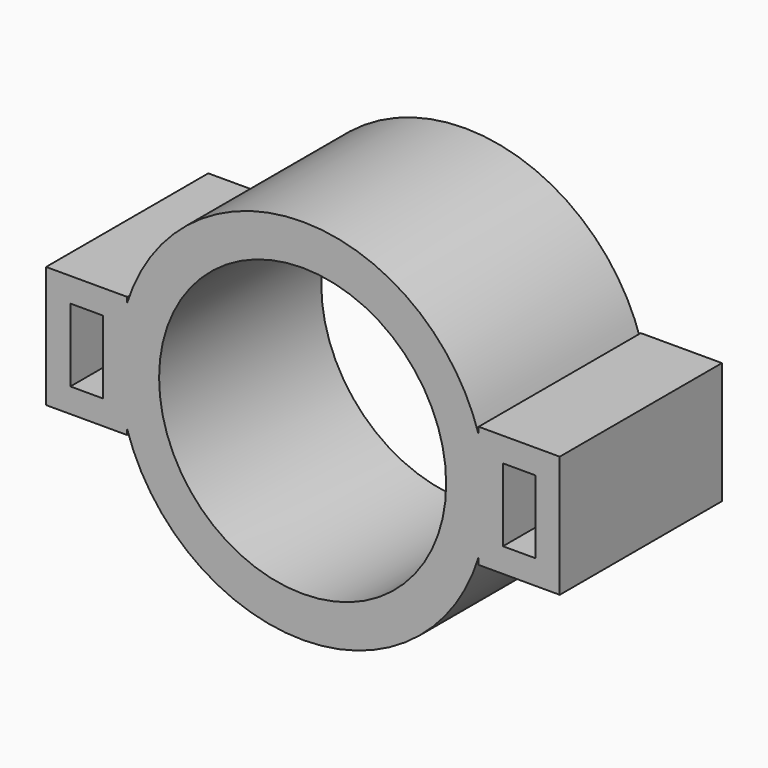
from build123d import *

# Parameters (mm, degrees)
F0_R     = 22.7
F0_R_2   = 17.7
F1_DEPTH = 25
F2_W     = 10
F2_H     = 15
F2_W_2   = 4
F2_H_2   = 9
F3_DEPTH = 25


with BuildPart() as f1:
    # F0 (on Front) → F1 (new body)
    with BuildSketch(Plane.XZ):
        Circle(F0_R)
        Circle(F0_R_2, mode=Mode.SUBTRACT)
    extrude(amount=F1_DEPTH)

    # F2 (on Front) → F3 (join)
    with BuildSketch(Plane.XZ):
        with Locations((-26.634742, 0)):
            Rectangle(F2_W, F2_H)
        with Locations((-26.634742, 0)):
            Rectangle(F2_W_2, F2_H_2, mode=Mode.SUBTRACT)
        with Locations((26.704006, 0)):
            Rectangle(F2_W, F2_H)
        with Locations((26.704006, 0)):
            Rectangle(F2_W_2, F2_H_2, mode=Mode.SUBTRACT)
    extrude(amount=F3_DEPTH)


solid = f1.part
